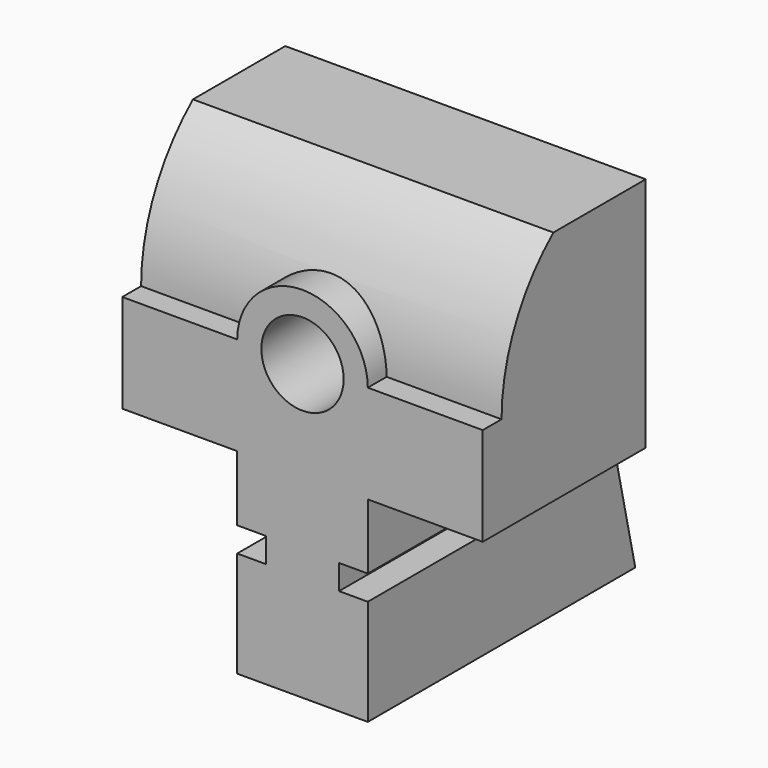
from build123d import *

# Parameters (mm, degrees)
F0_W      = 65.024
F0_H      = 84.074
F1_DEPTH  = 35.052
F3_DEPTH  = 127
F4_W      = 72.461889
F4_H      = 59.973377
F5_DEPTH  = 127
F7_DEPTH  = 127
F9_DEPTH  = 127
F10_R     = 12.7
F11_DEPTH = 25.4
F12_R     = 8.001
F13_DEPTH = 65.025


with BuildPart() as f1:
    # F0 (on Right) → F1 (new body, symmetric)
    with BuildSketch(Plane.YZ):
        Rectangle(F0_W, F0_H)
    extrude(amount=F1_DEPTH, both=True)

    # F2 (on Front) → F3 (cut, symmetric)
    with BuildSketch(Plane.XZ):
        Polygon((-12.7, -3.937), (-44.45, -3.937), (-44.45, -67.437), (-12.7, -67.437), (-12.7, -21.463), (-7.112, -21.463), (-7.112, -16.637), (-12.7, -16.637), align=None)
        Polygon((44.45, -3.937), (12.7, -3.937), (12.7, -16.637), (7.112, -16.637), (7.112, -21.463), (12.7, -21.463), (12.7, -67.437), (44.45, -67.437), align=None)
    extrude(amount=F3_DEPTH, both=True, mode=Mode.SUBTRACT)

    # F4 (on Right) → F5 (cut, symmetric)
    with BuildSketch(Plane.YZ):
        with Locations((43.342944, 23.001689)):
            Rectangle(F4_W, F4_H)
    extrude(amount=F5_DEPTH, both=True, mode=Mode.SUBTRACT)

    # F6 (on face) → F7 (cut, symmetric)
    with BuildSketch(Plane.YZ.offset(12.7)):
        Polygon((22.86, 0.46973), (32.512, -42.037), (52.074212, -65.31479), (55.857351, 0.46973), align=None)
    extrude(amount=F7_DEPTH, both=True, mode=Mode.SUBTRACT)

    # F8 (on Right) → F9 (cut, symmetric)
    with BuildSketch(Plane.YZ):
        with BuildLine():
            ThreePointArc((-27.939918, 15.188745), (-17.613927, 39.957944), (7.20457, 50.164878))
            Line((7.20457, 50.164878), (-34.922153, 66.136815))
            Line((-34.922153, 66.136815), (-47.838565, 20.211793))
            Line((-47.838565, 20.211793), (-47.838565, 15.188745))
            Line((-47.838565, 15.188745), (-27.939918, 15.188745))
        make_face()
    extrude(amount=F9_DEPTH, both=True, mode=Mode.SUBTRACT)

    # F10 (on face) → F11 (join)
    with BuildSketch(Plane.XZ.offset(32.512)):
        with Locations((0, 15.113)):
            Circle(F10_R)
    extrude(amount=-F11_DEPTH)

    # F12 (on face) → F13 (cut, through all)
    with BuildSketch(Plane.XZ.offset(32.512)):
        with Locations((0, 15.113)):
            Circle(F12_R)
    extrude(amount=-F13_DEPTH, mode=Mode.SUBTRACT)


solid = f1.part
